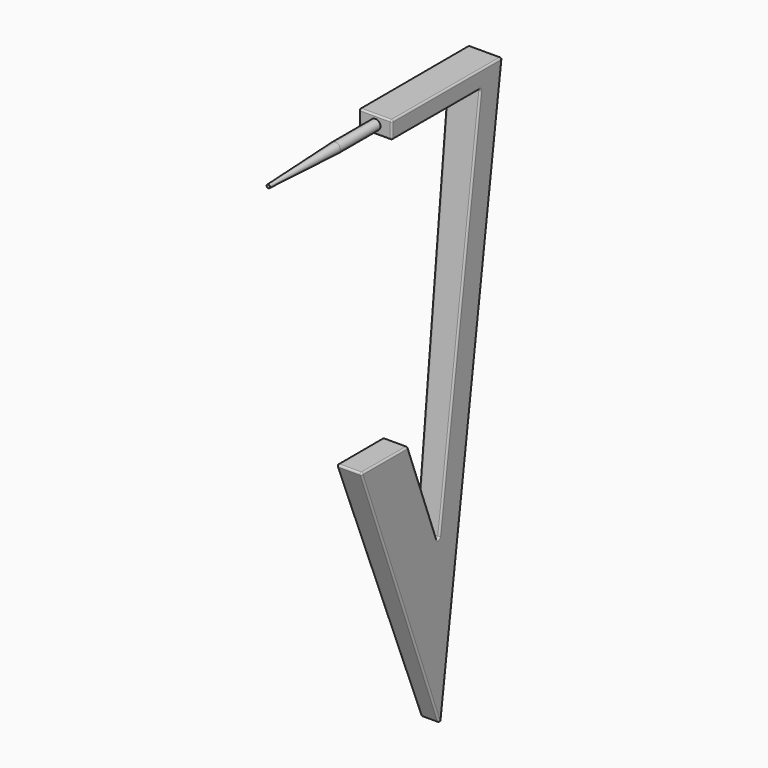
from build123d import *

# Parameters (mm, degrees)
F1_DEPTH = 1
F3_DEPTH = 12.5
F4_R     = 0.3
F5_DEPTH = 8
F6_SIZE2 = 5
F6_SIZE  = 0.2
F7_R     = 0.1


with BuildPart() as f1:
    # F0 (on Right) → F1 (new body, symmetric)
    with BuildSketch(Plane.YZ):
        Polygon((1.6081985701, 24.68570705), (-6.6278126925, 24.68570705), (-6.6278126925, 23.64570705), (0, 23.64570705), (-2.7713922732, 0.7310225915), (-5.147449191, 6.8627829807), (-8.647449191, 6.8627829807), (-2.4741467328, -9.0683216995), align=None)
    extrude(amount=F1_DEPTH, both=True)

    # F2 (on face) → F3 (cut, symmetric)
    with BuildSketch(Plane(origin=(0, -1.3575309583, 0.1641851458), x_dir=(-1, 0, 0), z_dir=(0, 0.9927655515, -0.1200689795))):
        Polygon((-0.5489893374, -11.4567056298), (-1, 24.7002143338), (-8.0727264285, 24.7002143338), (-7.1800793521, -14.4110620022), (7.0385080762, -14.4110620022), (7.0385080762, 24.0597836673), (1, 24.7002143338), (0.4711783549, -11.4567056298), align=None)
    extrude(amount=F3_DEPTH, both=True, mode=Mode.SUBTRACT)

    # F4 (on face) → F5 (join)
    with BuildSketch(Plane.XZ.offset(6.6278126925)):
        with Locations((0.0010640627, 24.16570705)):
            Circle(F4_R)
    extrude(amount=F5_DEPTH)

    # F6
    f6_edges = [f1.edges().sort_by_distance(p)[0] for p in [
        (-0.298936, -14.627813, 24.165707),
    ]]
    f6_side = f1.faces().sort_by_distance((0.001064, -14.627813, 24.165707))[0]
    chamfer(f6_edges, length=F6_SIZE, length2=F6_SIZE2, reference=f6_side)

    # F7
    f7_edges = [f1.edges().sort_by_distance(p)[0] for p in [
        (0.732986, -3.959421, 3.796903),
        (-0.992768, -2.509807, 24.685707),
        (-0.813282, -1.385696, 12.188365),
        (0.766552, -6.897449, 6.862783),
        (0.993832, -2.509807, 24.685707),
        (-0.612964, -5.560798, -1.102769),
        (0.840756, -1.385696, 12.188365),
        (0.979749, -3.313906, 23.645707),
        (0.669912, -5.560798, -1.102769),
        (0.787947, -0.432974, 7.808693),
        (-0.726276, -6.897449, 6.862783),
        (0, 1.608199, 24.685707),
        (-0.298936, -9.627813, 24.165707),
        (-0.751362, -0.432974, 7.808693),
        (-0.686919, -3.959421, 3.796903),
        (0.002175, -6.627813, 23.645707),
        (0.981225, -6.627813, 24.165707),
        (0.001319, 0, 23.645707),
        (0.026155, -2.771392, 0.731023),
        (-0.977986, -6.627813, 24.165707),
        (0.020364, -8.647449, 6.862783),
        (0.036585, -2.474147, -9.068322),
        (0.019912, -5.147449, 6.862783),
        (0.001064, -6.627813, 24.685707),
        (-0.976256, -3.313906, 23.645707),
    ]]
    fillet(f7_edges, radius=F7_R)


solid = f1.part
